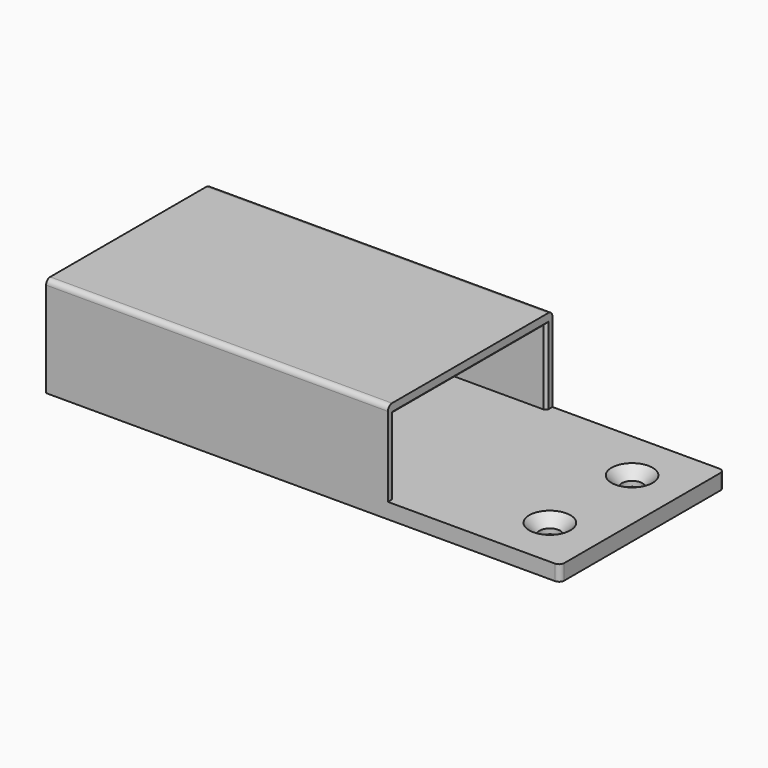
from build123d import *

# Parameters (mm, degrees)
PAD_DEPTH       = 40
SKETCH001_W     = 14.5
SKETCH001_H     = 37
POCKET_DEPTH    = 64
SKETCH002_R     = 2
POCKET001_DEPTH = 5
FILLET_R        = 1
FILLET001_R     = 1
CHAMFER_SIZE    = 0.5
CHAMFER001_SIZE = 2


with BuildPart() as part:
    # Sketch → Pad (new body)
    with BuildSketch(Plane.XZ):
        Polygon((0, 0), (0, 19.5), (66.5, 19.5), (66.5, 3), (100, 3), (100, 0), align=None)
    extrude(amount=PAD_DEPTH)

    # Sketch001 (on Face3 of Pad) → Pocket (cut)
    with BuildSketch(Plane(origin=(66.5, 0, 0), x_dir=(0, 0, 1), z_dir=(1, 0, 0))):
        with Locations((10.25, 19.980706)):
            Rectangle(SKETCH001_W, SKETCH001_H)
    extrude(amount=-POCKET_DEPTH, mode=Mode.SUBTRACT)

    # Sketch002 (on Face12 of Pocket) → Pocket001 (cut)
    with BuildSketch(Plane(origin=(0, 0, 3), x_dir=(-1, 0, 0), z_dir=(0, 0, 1))):
        with Locations((-90, 30)):
            Circle(SKETCH002_R)
        with Locations((-90, 10)):
            Circle(SKETCH002_R)
    extrude(amount=-POCKET001_DEPTH, mode=Mode.SUBTRACT)

    # Fillet
    fillet_edges = [part.edges().sort_by_distance(p)[0] for p in [
        (33.25, 0, 19.5),
        (33.25, -40, 19.5),
    ]]
    fillet(fillet_edges, radius=FILLET_R)

    # Fillet001
    fillet001_edges = [part.edges().sort_by_distance(p)[0] for p in [
        (100, 0, 1.5),
        (100, -40, 1.5),
    ]]
    fillet(fillet001_edges, radius=FILLET001_R)

    # Chamfer
    chamfer_edges = [part.edges().sort_by_distance(p)[0] for p in [
        (66.5, -38.480706, 10.25),
        (66.5, -19.980706, 17.5),
        (66.5, -1.480706, 10.25),
    ]]
    chamfer(chamfer_edges, length=CHAMFER_SIZE)

    # Chamfer001
    chamfer001_edges = [part.edges().sort_by_distance(p)[0] for p in [
        (92, -10, 3),
        (92, -30, 3),
    ]]
    chamfer(chamfer001_edges, length=CHAMFER001_SIZE)


solid = part.part
